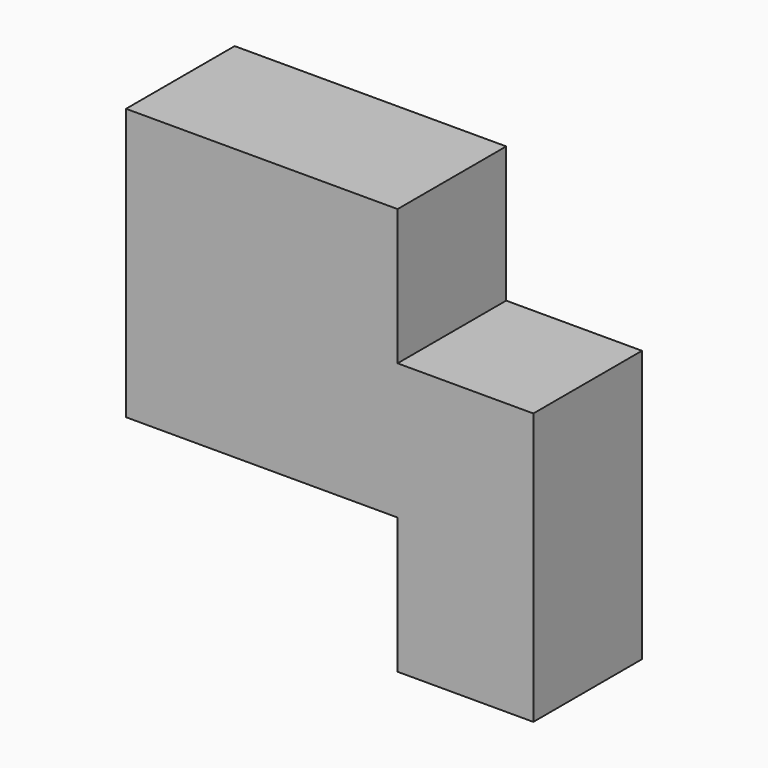
from build123d import *

# Parameters (mm, degrees)
F0_W     = 19.05
F0_H     = 19.05
F1_DEPTH = 9.525


with BuildPart() as f1:
    # F0 (on Front) → F1 (new body, symmetric)
    with BuildSketch(Plane.XZ):
        with Locations((-0.30079, -0.300789)):
            Rectangle(F0_W, F0_H)
        with Locations((18.74921, -0.300789)):
            Rectangle(F0_W, F0_H)
        with Locations((18.74921, -19.350789)):
            Rectangle(F0_W, F0_H)
        with Locations((-19.35079, -0.300789)):
            Rectangle(F0_W, F0_H)
        with Locations((-0.30079, 18.749211)):
            Rectangle(F0_W, F0_H)
        with Locations((-19.35079, 18.749211)):
            Rectangle(F0_W, F0_H)
    extrude(amount=F1_DEPTH, both=True)


solid = f1.part
